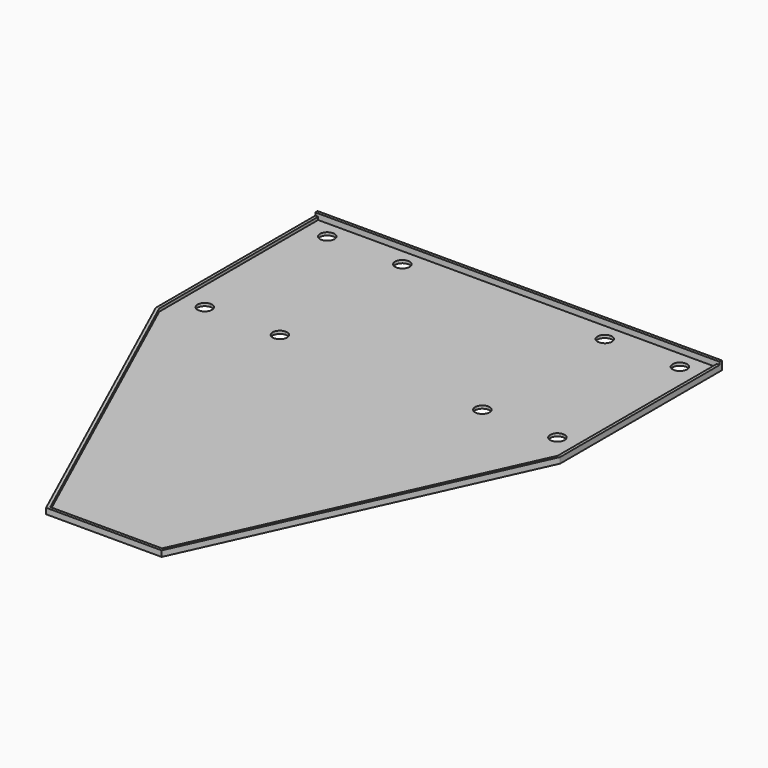
from build123d import *

# Parameters (mm, degrees)
F1_DEPTH = 1
F3_W     = 140
F3_H     = 1
F4_DEPTH = 2
F6_DEPTH = 1


with BuildPart() as f1:
    # F0 (on Top) → F1 (new body)
    with BuildSketch(Plane.XY):
        Polygon((-20, 0), (0, 0), (0, 180), (-70, 180), (-70, 110), align=None)
        with BuildLine():
            ThreePointArc((-58.549692, 120), (-62.817459, 118.232233), (-61.049692, 122.5))
            ThreePointArc((-61.049692, 122.5), (-59.281925, 121.767767), (-58.549692, 120))
        make_face(mode=Mode.SUBTRACT)
        with BuildLine():
            ThreePointArc((-32.549692, 120), (-35.049692, 117.5), (-37.549692, 120))
            ThreePointArc((-37.549692, 120), (-36.817459, 121.767767), (-35.049692, 122.5))
            ThreePointArc((-35.049692, 122.5), (-33.281925, 121.767767), (-32.549692, 120))
        make_face(mode=Mode.SUBTRACT)
        with BuildLine():
            ThreePointArc((-61.049692, 170.5), (-62.817459, 174.767767), (-58.549692, 173))
            ThreePointArc((-58.549692, 173), (-59.281925, 171.232233), (-61.049692, 170.5))
        make_face(mode=Mode.SUBTRACT)
        with BuildLine():
            ThreePointArc((-32.549692, 173), (-33.281925, 171.232233), (-35.049692, 170.5))
            ThreePointArc((-35.049692, 170.5), (-36.817459, 174.767767), (-32.549692, 173))
        make_face(mode=Mode.SUBTRACT)
    extrude(amount=F1_DEPTH)

    # F2: F1 across face


with BuildPart() as f1_1:
    add(f1.part)
    add(f1.part.mirror(Plane(origin=(0, 90, 0.5), x_dir=(0, 1, 0), z_dir=(1, 0, 0))))

    # F3 (on face) → F4 (join)
    with BuildSketch(Plane.XY.offset(1)):
        with Locations((0, 179.5)):
            Rectangle(F3_W, F3_H)
    extrude(amount=F4_DEPTH)

    # F5 (on face) → F6 (join)
    with BuildSketch(Plane.XY.offset(1)):
        Polygon((-69, 110.216609), (-69, 179), (-70, 179), (-70, 110), (-20, 0), (-16.780434, 0), (16.780434, 0), (20, 0), (70, 110), (70, 179), (69, 179), (69, 110.216609), (19.356087, 1), (-19.356087, 1), align=None)
    extrude(amount=F6_DEPTH)


solid = f1_1.part
